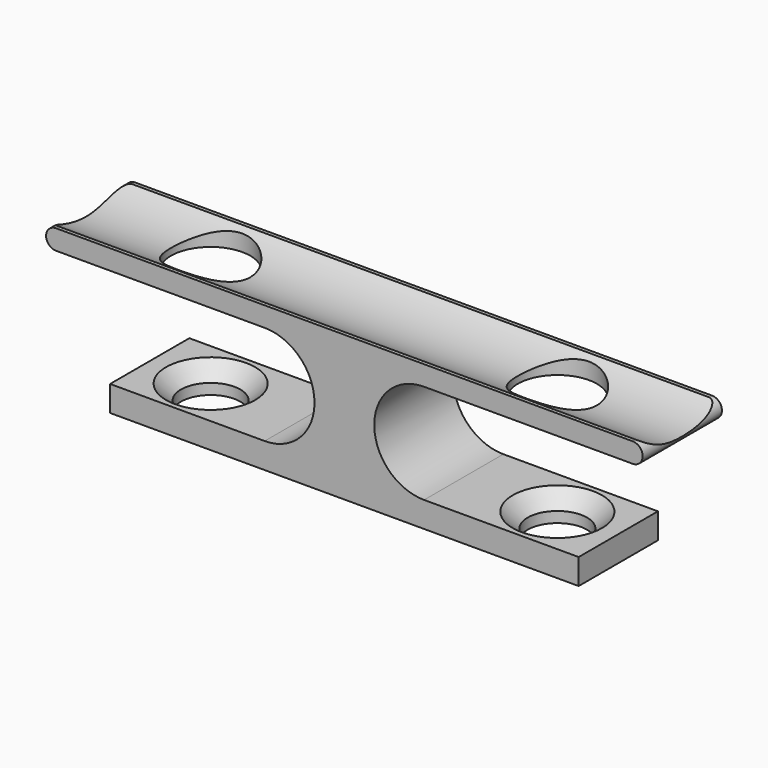
from build123d import *

# Parameters (mm, degrees)
PAD_DEPTH            = 5
SKETCH001_R          = 4
POCKET_DEPTH         = 5
SKETCH002_R          = 3
POCKET001_DEPTH      = 5
CHAMFER_SIZE         = 1.5
POCKET002_DEPTH      = 30.111
POCKET002_DEPTH_BACK = -30.111


with BuildPart() as part:
    # Sketch → Pad (new body, symmetric)
    with BuildSketch(Plane.XZ):
        with BuildLine():
            Line((-29.11, 14.64), (29.11, 14.64))
            ThreePointArc((29.11, 12.64), (30.11, 13.64), (29.11, 14.64))
            Line((29.11, 12.64), (8.045, 12.64))
            ThreePointArc((8.045, 12.64), (3.015, 7.61), (8.045, 2.58))
            Line((8.045, 2.58), (23.65, 2.58))
            Line((23.65, 2.58), (23.65, 0))
            Line((23.65, 0), (-23.65, 0))
            Line((-23.65, 0), (-23.65, 2.58))
            Line((-23.65, 2.58), (-8.045, 2.58))
            ThreePointArc((-8.045, 2.58), (-3.015, 7.61), (-8.045, 12.64))
            Line((-8.045, 12.64), (-29.11, 12.64))
            ThreePointArc((-29.11, 14.64), (-30.11, 13.64), (-29.11, 12.64))
        make_face()
    extrude(amount=PAD_DEPTH, both=True)

    # Sketch001 → Pocket (cut)
    with BuildSketch(Plane.XY.offset(15)):
        with Locations((-17.5, 0)):
            Circle(SKETCH001_R)
        with Locations((17.5, 0)):
            Circle(SKETCH001_R)
    extrude(amount=-POCKET_DEPTH, mode=Mode.SUBTRACT)

    # Sketch002 → Pocket001 (cut)
    with BuildSketch(Plane.XY.offset(3)):
        with Locations((-17.5, 0)):
            Circle(SKETCH002_R)
        with Locations((17.5, 0)):
            Circle(SKETCH002_R)
    extrude(amount=-POCKET001_DEPTH, mode=Mode.SUBTRACT)

    # Chamfer
    chamfer_edges = [part.edges().sort_by_distance(p)[0] for p in [
        (-20.5, 0, 2.58),
        (14.5, 0, 2.58),
    ]]
    chamfer(chamfer_edges, length=CHAMFER_SIZE)

    # Sketch003 → Pocket002 (cut, two sides)
    with BuildSketch(Plane.YZ) as pocket002_sk:
        with BuildLine():
            ThreePointArc((-7.064252, 16.860308), (0, 13.328536), (7.064252, 16.860308))
            Line((-7.064252, 16.860308), (7.064252, 16.860308))
        make_face()
    extrude(amount=-POCKET002_DEPTH, mode=Mode.SUBTRACT)
    extrude(pocket002_sk.sketch, amount=-POCKET002_DEPTH_BACK, mode=Mode.SUBTRACT)


solid = part.part
